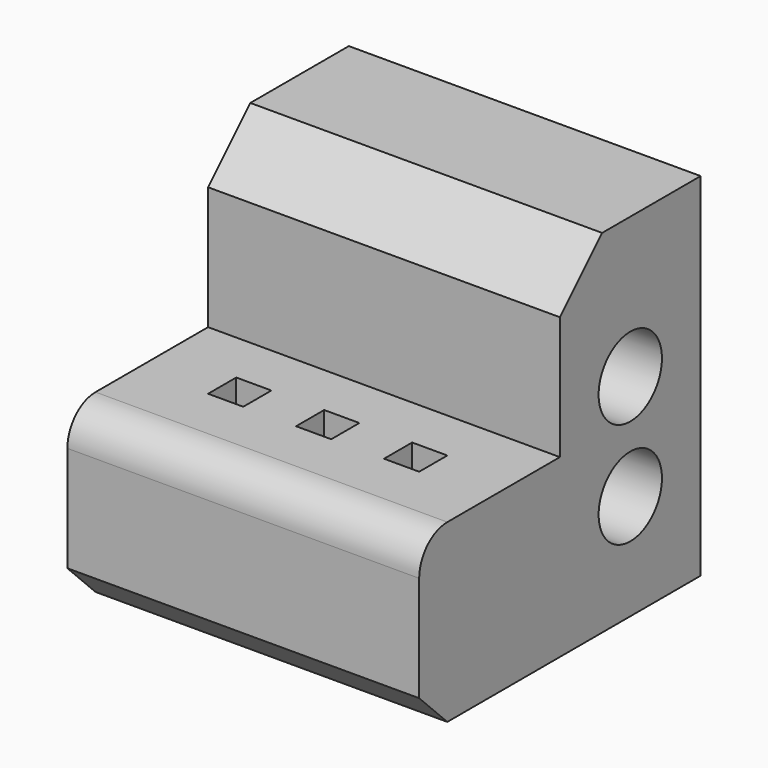
from build123d import *

# Parameters (mm, degrees)
F0_W     = 100
F0_H     = 100
F1_DEPTH = 100
F3_DEPTH = 100
F4_R     = 11.25
F5_DEPTH = 30
F6_W     = 10
F6_H     = 10
F7_DEPTH = 50


with BuildPart() as f1:
    # F0 (on Top) → F1 (new body)
    with BuildSketch(Plane.XY):
        with Locations((50, -50)):
            Rectangle(F0_W, F0_H)
    extrude(amount=F1_DEPTH)

    # F2 (on face) → F3 (cut)
    with BuildSketch(Plane.YZ.offset(100)):
        with BuildLine():
            Line((-88.576018, -5.630251), (-90, 0))
            Line((-90, 0), (-100, 10))
            Line((-100, 10), (-100, 40))
            ThreePointArc((-100, 40), (-97.071068, 47.071068), (-90, 50))
            Line((-90, 50), (-50, 50))
            Line((-50, 50), (-50, 85))
            Line((-50, 85), (-35, 100))
            Line((-35, 100), (-35, 130.032703))
            Line((-35, 130.032703), (-148.719932, 130.032703))
            Line((-148.719932, 130.032703), (-148.719932, -5.630251))
            Line((-148.719932, -5.630251), (-88.576018, -5.630251))
        make_face()
    extrude(amount=-F3_DEPTH, mode=Mode.SUBTRACT)

    # F4 (on face) → F5 (cut)
    with BuildSketch(Plane.YZ.offset(100)):
        with Locations((-25, 60)):
            Circle(F4_R)
        with Locations((-25, 30)):
            Circle(F4_R)
    extrude(amount=-F5_DEPTH, mode=Mode.SUBTRACT)

    # F6 (on face) → F7 (cut)
    with BuildSketch(Plane.XY.offset(50)):
        with Locations((25, -70)):
            Rectangle(F6_W, F6_H)
        with Locations((50, -70)):
            Rectangle(F6_W, F6_H)
        with Locations((75, -70)):
            Rectangle(F6_W, F6_H)
    extrude(amount=-F7_DEPTH, mode=Mode.SUBTRACT)


solid = f1.part
